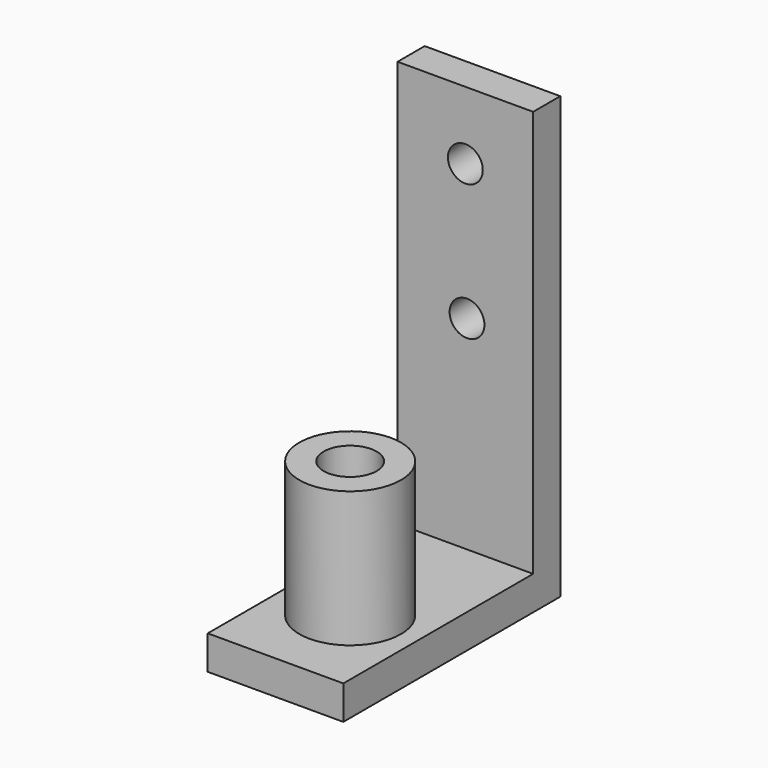
from build123d import *

# Parameters (mm, degrees)
F1_DEPTH = 25.4
F2_R     = 9.525
F2_R_2   = 4.9657
F3_DEPTH = 25.4
F4_R     = 3.2639
F5_DEPTH = 25.4


with BuildPart() as f1:
    # F0 (on Right) → F1 (new body)
    with BuildSketch(Plane.YZ):
        Polygon((-50.8, 0), (0, 0), (0, 82.55), (-6.35, 82.55), (-6.35, 6.35), (-50.8, 6.35), align=None)
    extrude(amount=F1_DEPTH)

    # F2 (on face) → F3 (join)
    with BuildSketch(Plane.XY.offset(6.35)):
        with Locations((12.7, -33.3248)):
            Circle(F2_R)
        with Locations((12.7, -33.3248)):
            Circle(F2_R_2, mode=Mode.SUBTRACT)
    extrude(amount=F3_DEPTH)

    # F4 (on face) → F5 (cut)
    with BuildSketch(Plane.XZ.offset(6.35)):
        with Locations((12.7, 69.85)):
            Circle(F4_R)
        with Locations((13.008095, 44.45)):
            Circle(F4_R)
    extrude(amount=-F5_DEPTH, mode=Mode.SUBTRACT)


solid = f1.part
